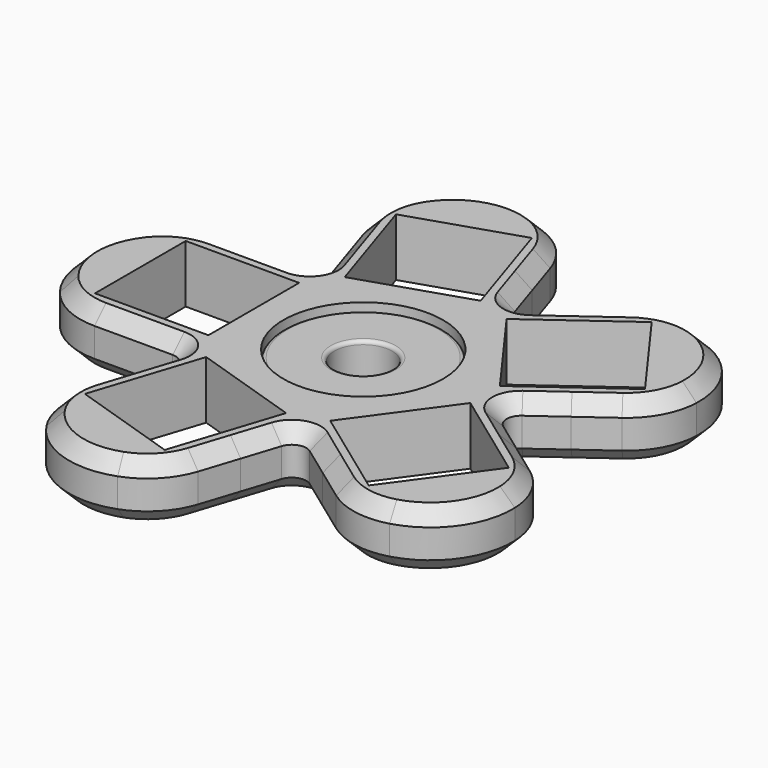
from build123d import *

# Parameters (mm, degrees)
F0_R     = 11
F0_R_2   = 4
F1_DEPTH = 7
F3_R     = 0.5
F2_W     = 15.7
F2_H     = 15.7
F2_R     = 11.05
F4_DEPTH = 8
F5_R     = 2
F6_R     = 10
F7_SIZE  = 2


with BuildPart() as f1:
    # F0 (on Top) → F1 (new body)
    with BuildSketch(Plane.XY):
        Circle(F0_R)
        Circle(F0_R_2, mode=Mode.SUBTRACT)
    extrude(amount=F1_DEPTH)

    # F3
    f3_edges = [f1.edges().sort_by_distance(p)[0] for p in [
        (-11, 0, 7),
        (-11, 0, 0),
        (-4, 0, 7),
        (-4, 0, 0),
    ]]
    fillet(f3_edges, radius=F3_R)


with BuildPart() as f4:
    # F2 (on face) → F4 (new body)
    with BuildSketch(Plane(origin=(0, 0, 0), x_dir=(1, 0, 0), z_dir=(0, 0, -1))):
        with BuildLine():
            Line((18.4591225412, 0), (14.815327199, -2.6473722795))
            ThreePointArc((14.815327199, -2.6473722795), (12.1757057653, -8.846168047), (7.0959885392, -13.2721304489))
            Line((7.0959885392, -13.2721304489), (5.7041825665, -17.5556687779))
            Line((5.7041825665, -17.5556687779), (12.2299208833, -22.2968951917))
            Line((12.2299208833, -22.2968951917), (18.5807042891, -26.9110094222))
            ThreePointArc((18.5807042891, -26.9110094222), (31.3898593817, -22.8060677889), (31.3356442638, -9.3553406443))
            Line((31.3356442638, -9.3553406443), (24.984860858, -4.7412264138))
            Line((24.984860858, -4.7412264138), (18.4591225412, 0))
        make_face()
        Polygon((16.8707216953, -2.5541631664), (29.572288507, -11.7823916274), (20.344060046, -24.4839584391), (7.6424932343, -15.2557299781), align=None, mode=Mode.SUBTRACT)
        with BuildLine():
            Line((5.7041825665, -17.5556687779), (2.0603872243, -14.9082964985))
            ThreePointArc((2.0603872243, -14.9082964985), (-4.6507057653, -14.3134005702), (-10.429765098, -10.85))
            Line((-10.429765098, -10.85), (-14.9337438371, -10.85))
            Line((-14.9337438371, -10.85), (-17.4263540724, -18.5214654858))
            Line((-17.4263540724, -18.5214654858), (-19.8521374783, -25.9872591387))
            ThreePointArc((-19.8521374783, -25.9872591387), (-11.9898593817, -36.9009928323), (0.7857889253, -32.6929279167))
            Line((0.7857889253, -32.6929279167), (3.2115723312, -25.2271342638))
            Line((3.2115723312, -25.2271342638), (5.7041825665, -17.5556687779))
        make_face()
        Polygon((2.7841861881, -16.8342896277), (-2.0673806236, -31.7658769335), (-16.9989679294, -26.9143101219), (-12.1474011177, -11.982722816), align=None, mode=Mode.SUBTRACT)
        with BuildLine():
            ThreePointArc((-13.5419378644, -6.5664616709), (-15.05, 0), (-13.5419378644, 6.5664616709))
            Line((-13.5419378644, 6.5664616709), (-14.9337438371, 10.85))
            Line((-14.9337438371, 10.85), (-23, 10.85))
            Line((-23, 10.85), (-30.85, 10.85))
            ThreePointArc((-30.85, 10.85), (-38.8, 0), (-30.85, -10.85))
            Line((-30.85, -10.85), (-23, -10.85))
            Line((-23, -10.85), (-14.9337438371, -10.85))
            Line((-14.9337438371, -10.85), (-13.5419378644, -6.5664616709))
        make_face()
        with Locations((-23, 0)):
            Rectangle(F2_W, F2_H, mode=Mode.SUBTRACT)
        with BuildLine():
            ThreePointArc((-10.429765098, 10.85), (-4.6507057653, 14.3134005702), (2.0603872243, 14.9082964985))
            Line((2.0603872243, 14.9082964985), (5.7041825665, 17.5556687779))
            Line((5.7041825665, 17.5556687779), (3.2115723312, 25.2271342638))
            Line((3.2115723312, 25.2271342638), (0.7857889253, 32.6929279167))
            ThreePointArc((0.7857889253, 32.6929279167), (-11.9898593817, 36.9009928323), (-19.8521374783, 25.9872591387))
            Line((-19.8521374783, 25.9872591387), (-17.4263540724, 18.5214654858))
            Line((-17.4263540724, 18.5214654858), (-14.9337438371, 10.85))
            Line((-14.9337438371, 10.85), (-10.429765098, 10.85))
        make_face()
        Polygon((2.7841861881, 16.8342896277), (-12.1474011177, 11.982722816), (-16.9989679294, 26.9143101219), (-2.0673806236, 31.7658769335), align=None, mode=Mode.SUBTRACT)
        with BuildLine():
            ThreePointArc((-13.5419378644, 6.5664616709), (-12.1757057653, 8.846168047), (-10.429765098, 10.85))
            Line((-10.429765098, 10.85), (-14.9337438371, 10.85))
            Line((-14.9337438371, 10.85), (-13.5419378644, 6.5664616709))
        make_face()
        with BuildLine():
            ThreePointArc((7.0959885392, 13.2721304489), (12.1757057653, 8.846168047), (14.815327199, 2.6473722795))
            Line((14.815327199, 2.6473722795), (18.4591225412, 0))
            Line((18.4591225412, 0), (24.984860858, 4.7412264138))
            Line((24.984860858, 4.7412264138), (31.3356442638, 9.3553406443))
            ThreePointArc((31.3356442638, 9.3553406443), (31.3898593817, 22.8060677889), (18.5807042891, 26.9110094222))
            Line((18.5807042891, 26.9110094222), (12.2299208833, 22.2968951917))
            Line((12.2299208833, 22.2968951917), (5.7041825665, 17.5556687779))
            Line((5.7041825665, 17.5556687779), (7.0959885392, 13.2721304489))
        make_face()
        Polygon((16.8707216953, 2.5541631664), (7.6424932343, 15.2557299781), (20.344060046, 24.4839584391), (29.572288507, 11.7823916274), align=None, mode=Mode.SUBTRACT)
        with BuildLine():
            ThreePointArc((2.0603872243, 14.9082964985), (4.6507057653, 14.3134005702), (7.0959885392, 13.2721304489))
            Line((7.0959885392, 13.2721304489), (5.7041825665, 17.5556687779))
            Line((5.7041825665, 17.5556687779), (2.0603872243, 14.9082964985))
        make_face()
        with BuildLine():
            ThreePointArc((14.815327199, 2.6473722795), (14.9912170011, 1.3288765283), (15.05, 0))
            ThreePointArc((15.05, 0), (14.9912170011, -1.3288765283), (14.815327199, -2.6473722795))
            Line((14.815327199, -2.6473722795), (18.4591225412, 0))
            Line((18.4591225412, 0), (14.815327199, 2.6473722795))
        make_face()
        with BuildLine():
            Line((-14.9337438371, -10.85), (-10.429765098, -10.85))
            ThreePointArc((-10.429765098, -10.85), (-12.1757057653, -8.846168047), (-13.5419378644, -6.5664616709))
            Line((-13.5419378644, -6.5664616709), (-14.9337438371, -10.85))
        make_face()
        with BuildLine():
            ThreePointArc((14.815327199, -2.6473722795), (14.9912170011, -1.3288765283), (15.05, 0))
            ThreePointArc((15.05, 0), (14.9912170011, 1.3288765283), (14.815327199, 2.6473722795))
            ThreePointArc((14.815327199, 2.6473722795), (12.1757057653, 8.846168047), (7.0959885392, 13.2721304489))
            ThreePointArc((7.0959885392, 13.2721304489), (4.6507057653, 14.3134005702), (2.0603872243, 14.9082964985))
            ThreePointArc((2.0603872243, 14.9082964985), (-4.6507057653, 14.3134005702), (-10.429765098, 10.85))
            ThreePointArc((-10.429765098, 10.85), (-12.1757057653, 8.846168047), (-13.5419378644, 6.5664616709))
            ThreePointArc((-13.5419378644, 6.5664616709), (-15.05, 0), (-13.5419378644, -6.5664616709))
            ThreePointArc((-13.5419378644, -6.5664616709), (-12.1757057653, -8.846168047), (-10.429765098, -10.85))
            ThreePointArc((-10.429765098, -10.85), (-4.6507057653, -14.3134005702), (2.0603872243, -14.9082964985))
            ThreePointArc((2.0603872243, -14.9082964985), (4.6507057653, -14.3134005702), (7.0959885392, -13.2721304489))
            ThreePointArc((7.0959885392, -13.2721304489), (12.1757057653, -8.846168047), (14.815327199, -2.6473722795))
        make_face()
        Circle(F2_R, mode=Mode.SUBTRACT)
        with BuildLine():
            Line((5.7041825665, -17.5556687779), (7.0959885392, -13.2721304489))
            ThreePointArc((7.0959885392, -13.2721304489), (4.6507057653, -14.3134005702), (2.0603872243, -14.9082964985))
            Line((2.0603872243, -14.9082964985), (5.7041825665, -17.5556687779))
        make_face()
    extrude(amount=-F4_DEPTH)

    # F5
    f5_edges = [f4.edges().sort_by_distance(p)[0] for p in [
        (5.704183, 17.555669, 4),
        (18.459123, 0, 4),
        (-14.933744, -10.85, 4),
        (-14.933744, 10.85, 4),
        (5.704183, -17.555669, 4),
    ]]
    fillet(f5_edges, radius=F5_R)

    # F6
    f6_edges = [f4.edges().sort_by_distance(p)[0] for p in [
        (18.580704, 26.911009, 4),
        (31.335644, 9.355341, 4),
        (-30.85, -10.85, 4),
        (-30.85, 10.85, 4),
        (-19.852137, 25.987259, 4),
        (0.785789, 32.692928, 4),
        (-19.852137, -25.987259, 4),
        (0.785789, -32.692928, 4),
        (18.580704, -26.911009, 4),
        (31.335644, -9.355341, 4),
    ]]
    fillet(f6_edges, radius=F6_R)

    # F7
    f7_edges = [f4.edges().sort_by_distance(p)[0] for p in [
        (31.389859, 22.806068, 8),
        (-11.989859, 36.900993, 8),
        (-32.88625, -9.840049, 8),
        (31.389859, 22.806068, 0),
        (-38.8, 0, 0),
        (-11.989859, 36.900993, 0),
    ]]
    chamfer(f7_edges, length=F7_SIZE)


solid = Compound([f1.part, f4.part])
